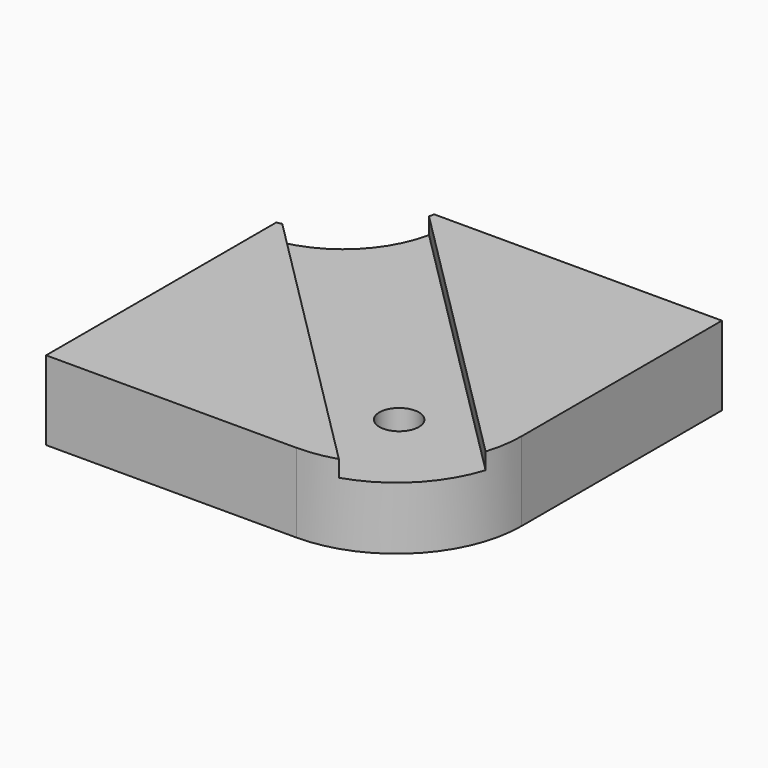
from build123d import *

# Parameters (mm, degrees)
PAD016_DEPTH            = 24
POCKET028_DEPTH         = 5
SKETCH046_R             = 32
SKETCH046_R_2           = 6
POCKET029_DEPTH         = 24
BODY014_PLACEMENT_ANGLE = 180


with BuildPart() as part:
    # Sketch044 → Pad016 (new body)
    with BuildSketch(Plane.XY):
        with BuildLine():
            Line((5, 5), (119, 5))
            Line((119, 5), (119, 81))
            ThreePointArc((119, 81), (107.870058, 107.870058), (81, 119))
            Line((81, 119), (5, 119))
            Line((5, 119), (5, 5))
        make_face()
    extrude(amount=PAD016_DEPTH)

    # Sketch045 (on Face6 of Pad016) → Pocket028 (cut)
    with BuildSketch(Plane(origin=(0, 0, 0), x_dir=(1, 0, 0), z_dir=(0, 0, -1))):
        Polygon((12.374369, 12.374369), (123.206096, -98.457359), (98.457359, -123.206096), (-12.374369, -12.374369), (0, 0), align=None)
    extrude(amount=-POCKET028_DEPTH, mode=Mode.SUBTRACT)

    # Sketch046 (on Face6 of Pocket028) → Pocket029 (cut)
    with BuildSketch(Plane.XY.offset(24)):
        Circle(SKETCH046_R)
        with Locations((85, 85)):
            Circle(SKETCH046_R_2)
    extrude(amount=-POCKET029_DEPTH, mode=Mode.SUBTRACT)


with BuildPart() as part_1:
    # Body014 placement: moved
    add(part.part.rotate(Axis((0, 0, 0), (1, 0, 0)), BODY014_PLACEMENT_ANGLE))


solid = part_1.part
